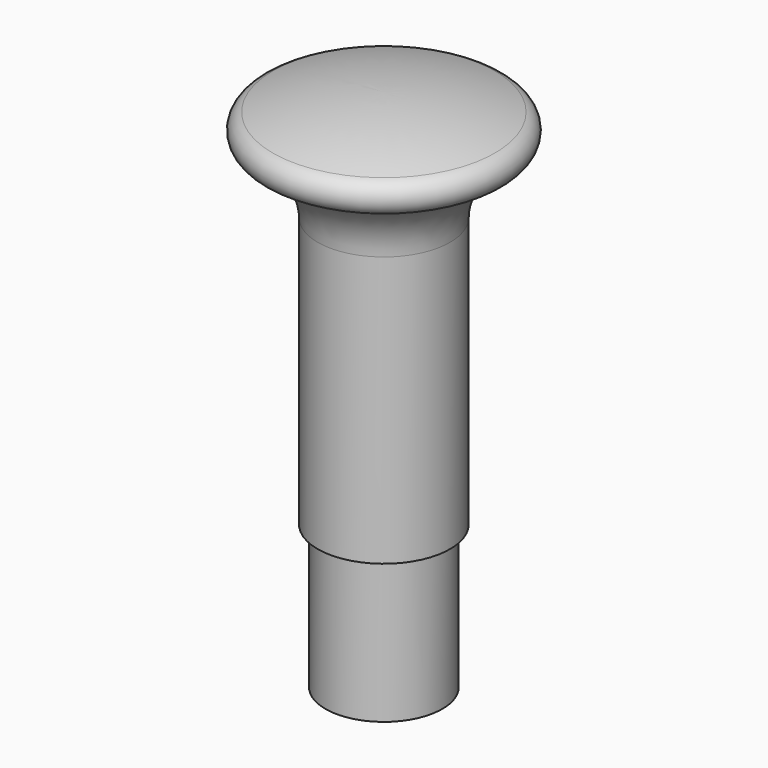
from build123d import *


with BuildPart() as f1:
    # F0 (on Front) → F1 (revolve)
    with BuildSketch(Plane.XZ):
        with BuildLine():
            Line((-2.2, 8), (0, 8))
            Line((0, 8), (0, 30.3))
            ThreePointArc((0, 30.3), (-4.475945, 29.947833), (-8.841739, 28.9))
            ThreePointArc((-8.841739, 28.9), (-9.75, 27.65), (-8.841739, 26.4))
            ThreePointArc((-8.841739, 26.4), (-6.257218, 24.522493), (-5.27, 21.484372))
            Line((-5.27, 21.484372), (-5.27, 0))
            Line((-5.27, 0), (-4.65, 0))
            Line((-4.65, 0), (-4.65, -11.4))
            Line((-4.65, -11.4), (-2.2, -11.4))
            Line((-2.2, -11.4), (-2.2, 8))
        make_face()
    revolve(axis=Axis((0, 0, 19.15), (0, 0, -1)))


solid = f1.part
